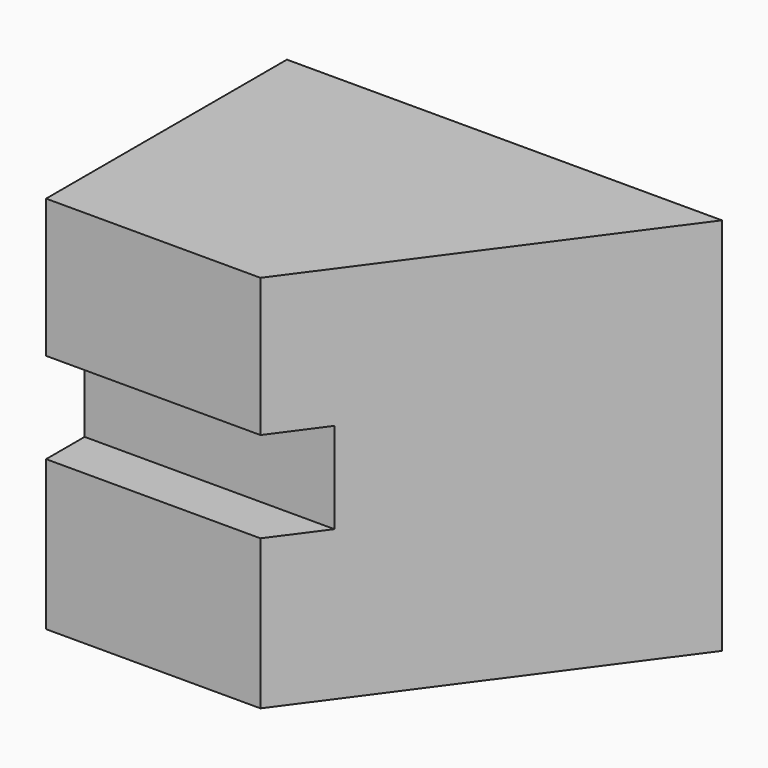
from build123d import *

# Parameters (mm, degrees)
F0_W     = 183.51976946
F0_H     = 159.9090248346
F1_DEPTH = 127
F3_DEPTH = 159.9100248346
F5_DEPTH = 159.9100248346
F6_W     = 20.3265432715
F6_H     = 38.354692515
F7_DEPTH = 183.52076946


with BuildPart() as f1:
    # F0 (on Front) → F1 (new body)
    with BuildSketch(Plane.XZ):
        with Locations((33.8062848896, -26.8303751945)):
            Rectangle(F0_W, F0_H)
    extrude(amount=F1_DEPTH)

    # F2 (on face) → F3 (cut, through all)
    with BuildSketch(Plane(origin=(0, 0, -106.7848876119), x_dir=(1, 0, 0), z_dir=(0, 0, -1))):
        Polygon((61.1603185534, 201.0327279568), (125.5661696196, 0), (249.7815191746, 14.9288764223), (305.6204319, 25.561010465), align=None)
    extrude(amount=-F3_DEPTH, mode=Mode.SUBTRACT)

    # F4 (on face) → F5 (cut, through all)
    with BuildSketch(Plane.XY.offset(53.1241372228)):
        Polygon((127.3305118084, 0), (125.5661696196, 0), (32.5038395822, -127), (137.3508572578, -127), (149.5707929134, 0), align=None)
    extrude(amount=-F5_DEPTH, mode=Mode.SUBTRACT)

    # F6 (on face) → F7 (cut, through all)
    with BuildSketch(Plane(origin=(-57.9535998404, 0, 0), x_dir=(0, -1, 0), z_dir=(-1, 0, 0))):
        with Locations((116.8367283642, -24.4502548594)):
            Rectangle(F6_W, F6_H)
    extrude(amount=-F7_DEPTH, mode=Mode.SUBTRACT)


solid = f1.part
